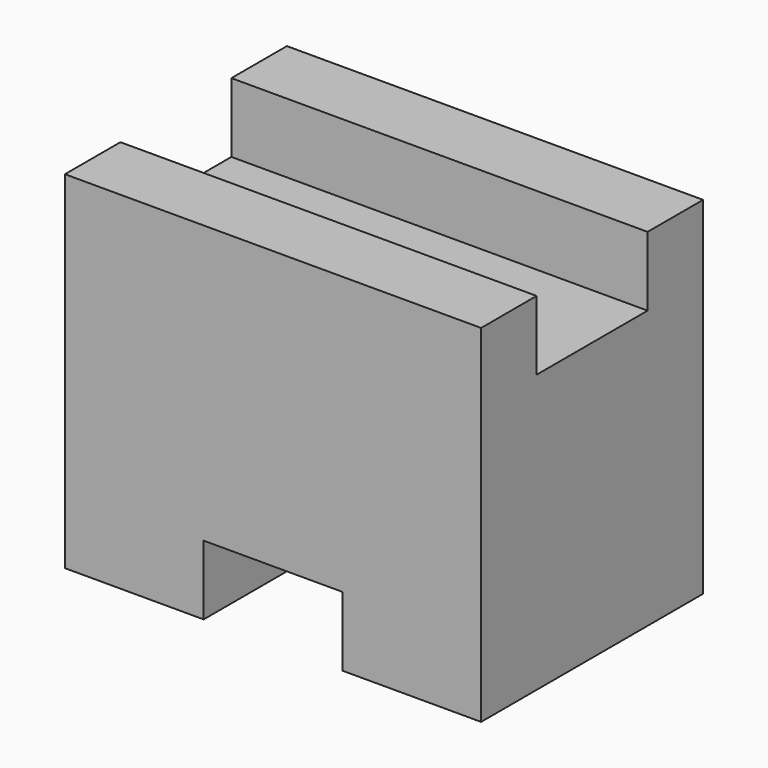
from build123d import *

# Parameters (mm, degrees)
F0_W     = 25.4
F0_H     = 31.75
F1_DEPTH = 38.1
F3_DEPTH = 6.35
F4_W     = 12.7
F4_H     = 6.35
F5_DEPTH = 25.4


with BuildPart() as f1:
    # F0 (on Right) → F1 (new body)
    with BuildSketch(Plane.YZ):
        with Locations((12.7, 15.875)):
            Rectangle(F0_W, F0_H)
    extrude(amount=-F1_DEPTH)

    # F2 (on face) → F3 (cut)
    with BuildSketch(Plane.XY.offset(31.75)):
        Polygon((0, 19.05), (-38.1, 19.05), (-38.1, 6.35), (0, 6.35), (0, 12.7), align=None)
    extrude(amount=-F3_DEPTH, mode=Mode.SUBTRACT)

    # F4 (on face) → F5 (cut)
    with BuildSketch(Plane.XZ):
        with Locations((-19.05, 3.175)):
            Rectangle(F4_W, F4_H)
    extrude(amount=-F5_DEPTH, mode=Mode.SUBTRACT)


solid = f1.part
